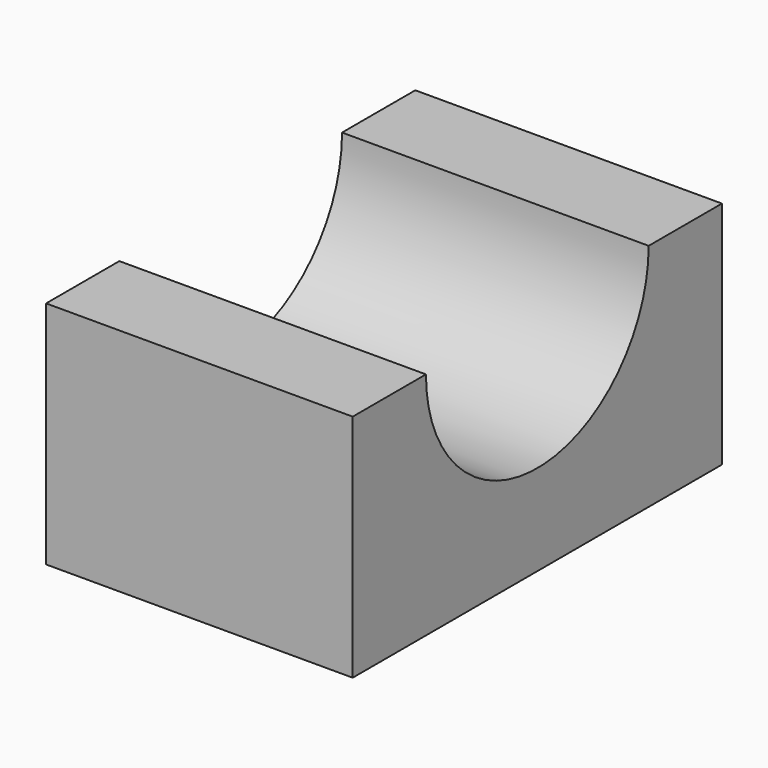
from build123d import *

# Parameters (mm, degrees)
F0_W     = 60.315638
F0_H     = 90.782776
F1_DEPTH = 45.212
F3_DEPTH = 80.264


with BuildPart() as f1:
    # F0 (on Top) → F1 (new body)
    with BuildSketch(Plane.XY):
        Rectangle(F0_W, F0_H)
    extrude(amount=F1_DEPTH)

    # F2 (on face) → F3 (cut)
    with BuildSketch(Plane.YZ.offset(30.157819)):
        with BuildLine():
            Line((-27.38159, 45.212), (27.38159, 45.212))
            ThreePointArc((27.38159, 45.212), (0, 72.59359), (-27.38159, 45.212))
        make_face()
        with BuildLine():
            ThreePointArc((-27.38159, 45.212), (0, 17.83041), (27.38159, 45.212))
            Line((27.38159, 45.212), (-27.38159, 45.212))
        make_face()
    extrude(amount=-F3_DEPTH, mode=Mode.SUBTRACT)


solid = f1.part
